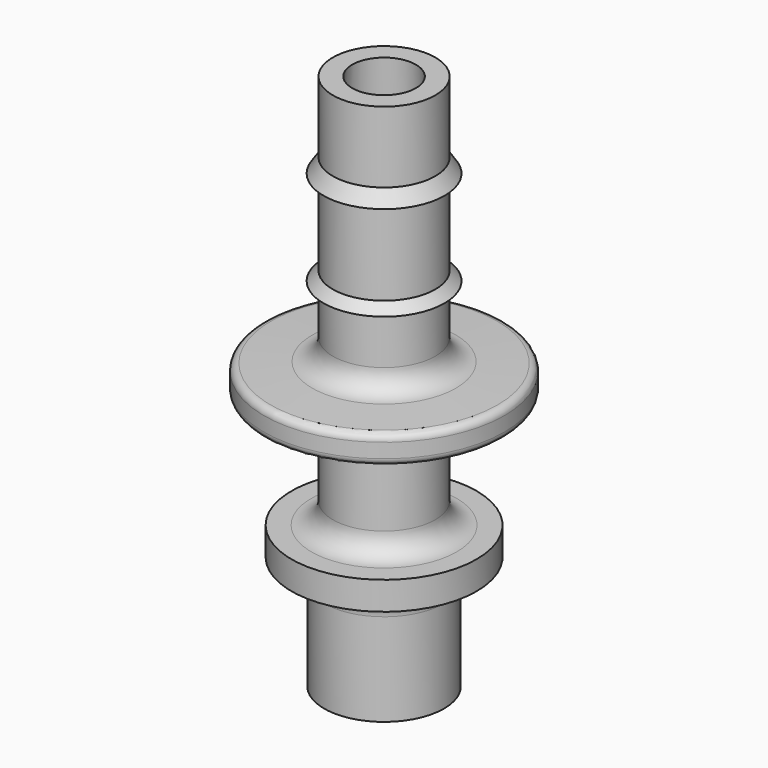
from build123d import *


with BuildPart() as f1:
    # F0 (on Front) → F1 (revolve)
    with BuildSketch(Plane.XZ):
        with BuildLine():
            Line((3.6, 47.850312), (3.6, 52.850312))
            Line((3.6, 52.850312), (2.236389, 52.850312))
            Line((2.236389, 52.850312), (3.718804, 15.120346))
            Line((3.718804, 15.120346), (4.210656, 15.120346))
            Line((4.210656, 15.120346), (4.210656, 21.620346))
            ThreePointArc((4.210656, 21.620346), (4.649996, 22.681006), (5.710656, 23.120346))
            Line((5.710656, 23.120346), (6.5, 23.120346))
            Line((6.5, 23.120346), (6.5, 25.100315))
            Line((6.5, 25.100315), (5.1, 25.100315))
            ThreePointArc((5.1, 25.100315), (4.03934, 25.539655), (3.6, 26.600315))
            Line((3.6, 26.600315), (3.6, 31.600315))
            ThreePointArc((3.6, 31.600315), (4.03934, 32.660976), (5.1, 33.100315))
            Line((5.1, 33.100315), (7.95, 33.100315))
            ThreePointArc((7.95, 33.100315), (8.303553, 33.246762), (8.45, 33.600315))
            Line((8.45, 33.600315), (8.45, 34.616477))
            ThreePointArc((8.45, 34.616477), (8.309313, 34.964176), (7.966423, 35.116207))
            Line((7.966423, 35.116207), (5.050732, 35.212025))
            ThreePointArc((5.050732, 35.212025), (4.022062, 35.66812), (3.6, 36.711216))
            Line((3.6, 36.711216), (3.6, 39.8597))
            Line((3.6, 39.8597), (4.25, 40.200312))
            Line((4.25, 40.200312), (3.6, 40.850312))
            Line((3.6, 40.850312), (3.6, 46.850312))
            Line((3.6, 46.850312), (4.25, 46.850312))
            Line((4.25, 46.850312), (3.6, 47.850312))
        make_face()
    revolve(axis=Axis((0, 0, 34.050312), (0, 0, -1)))


solid = f1.part
